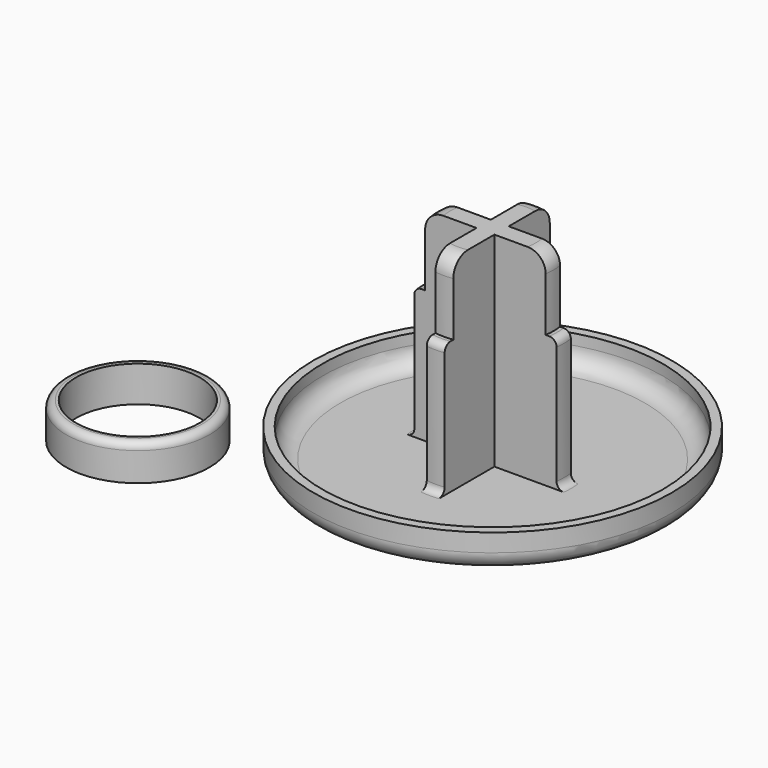
from build123d import *

# Parameters (mm, degrees)
F0_R      = 50
F1_DEPTH  = 10
F2_R      = 47.5
F3_DEPTH  = 8
F4_R      = 5
F5_R      = 20
F6_DEPTH  = 37
F7_R      = 17
F8_DEPTH  = 20
F9_W      = 26.4220045281
F9_H      = 25.0961510785
F9_W_2    = 24.3472188315
F9_W_3    = 25.1923035735
F9_H_2    = 21.7307658747
F9_W_4    = 25.5566187577
F9_H_3    = 23.3653835039
F10_DEPTH = 57
F11_R     = 5
F12_R     = 2
F13_R     = 20
F13_R_2   = 17.25
F14_DEPTH = 10
F15_R     = 2


with BuildPart() as f1:
    # F0 (on Top) → F1 (new body)
    with BuildSketch(Plane.XY):
        Circle(F0_R)
    extrude(amount=F1_DEPTH)

    # F2 (on face) → F3 (cut)
    with BuildSketch(Plane.XY.offset(10)):
        Circle(F2_R)
    extrude(amount=-F3_DEPTH, mode=Mode.SUBTRACT)

    # F4
    f4_edges = [f1.edges().sort_by_distance(p)[0] for p in [
        (-50, 0, 0),
        (-47.5, 0, 2),
    ]]
    fillet(f4_edges, radius=F4_R)

    # F5 (on face) → F6 (join)
    with BuildSketch(Plane.XY.offset(2)):
        Circle(F5_R)
    extrude(amount=F6_DEPTH)

    # F7 (on face) → F8 (join)
    with BuildSketch(Plane.XY.offset(39)):
        Circle(F7_R)
    extrude(amount=F8_DEPTH)

    # F9 (on face) → F10 (cut)
    with BuildSketch(Plane.XY.offset(59)):
        with Locations((-15.7110022641, 15.0480755392)):
            Rectangle(F9_W, F9_H)
        with Locations((14.6736094158, 15.0480755392)):
            Rectangle(F9_W_2, F9_H)
        with Locations((15.0961517867, -13.3653829373)):
            Rectangle(F9_W_3, F9_H_2)
        with Locations((-15.2783093789, -14.182691752)):
            Rectangle(F9_W_4, F9_H_3)
    extrude(amount=-F10_DEPTH, mode=Mode.SUBTRACT)

    # F11
    f11_edges = [f1.edges().sort_by_distance(p)[0] for p in [
        (-17, 0, 59),
        (0, -17, 59),
        (17, 0, 59),
        (0, 17, 59),
    ]]
    fillet(f11_edges, radius=F11_R)

    # F12
    f12_edges = [f1.edges().sort_by_distance(p)[0] for p in [
        (-20, 0, 39),
        (0, -20, 39),
        (20, 0, 39),
        (0, 20, 39),
        (0, -20, 2),
        (-20, 0, 2),
        (0, 20, 2),
        (20, 0, 2),
    ]]
    fillet(f12_edges, radius=F12_R)


with BuildPart() as f14:
    # F13 (on Top) → F14 (new body)
    with BuildSketch(Plane.XY):
        with Locations((-68.1574866176, -38.545884192)):
            Circle(F13_R)
        with Locations((-68.1574866176, -38.545884192)):
            Circle(F13_R_2, mode=Mode.SUBTRACT)
    extrude(amount=F14_DEPTH)

    # F15
    f15_edges = [f14.edges().sort_by_distance(p)[0] for p in [
        (-88.157487, -38.545884, 10),
    ]]
    fillet(f15_edges, radius=F15_R)


solid = Compound([f1.part, f14.part])
